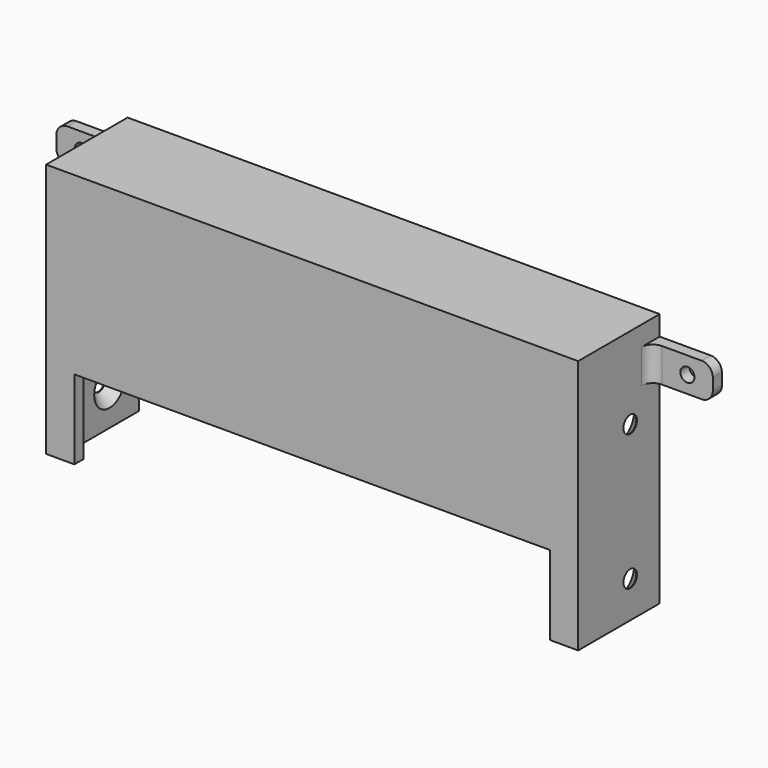
from build123d import *

# Parameters (mm, degrees)
F0_W      = 94
F0_H      = 45
F1_DEPTH  = 2
F2_W      = 2
F2_H      = 45
F3_DEPTH  = 16
F4_W      = 94
F4_H      = 18
F5_DEPTH  = 2
F6_W      = 2
F6_H      = 6
F7_DEPTH  = 11
F8_R      = 1.25
F8_R_2    = 1.5
F9_DEPTH  = 25
F10_R     = 2
F12_W     = 19.2678107619
F12_H     = 14.8564111814
F12_W_2   = 16.8835728168
F12_H_2   = 15.2771589719
F13_DEPTH = 25
F14_R     = 1.5
F15_DEPTH = 100
F16_R     = 1.5
F17_DEPTH = 100
F18_SIZE  = 1.87
F19_W     = 84
F19_H     = 28
F20_DEPTH = 25


with BuildPart() as f1:
    # F0 (on Front) → F1 (new body)
    with BuildSketch(Plane.XZ):
        Rectangle(F0_W, F0_H)
    extrude(amount=F1_DEPTH)

    # F2 (on face) → F3 (join)
    with BuildSketch(Plane(origin=(0, 0, 0), x_dir=(-1, 0, 0), z_dir=(0, 1, 0))):
        with Locations((-46, 0)):
            Rectangle(F2_W, F2_H)
        with Locations((46, 0)):
            Rectangle(F2_W, F2_H)
    extrude(amount=F3_DEPTH)

    # F4 (on face) → F5 (join)
    with BuildSketch(Plane.XY.offset(22.5)):
        with Locations((0, 7)):
            Rectangle(F4_W, F4_H)
    extrude(amount=-F5_DEPTH)

    # F6 (on face) → F7 (join)
    with BuildSketch(Plane.YZ.offset(47)):
        with Locations((15, 16)):
            Rectangle(F6_W, F6_H)
        with Locations((15, -16)):
            Rectangle(F6_W, F6_H)
    extrude(amount=F7_DEPTH)

    # F8 (on face) → F9 (cut)
    with BuildSketch(Plane.XZ.offset(-14)):
        with Locations((53.5, 16)):
            Circle(F8_R)
        with Locations((53.5, -16)):
            Circle(F8_R_2)
    extrude(amount=-F9_DEPTH, mode=Mode.SUBTRACT)

    # F10
    f10_edges = [f1.edges().sort_by_distance(p)[0] for p in [
        (58, 15, -19),
        (58, 15, -13),
        (58, 15, 19),
        (58, 15, 13),
        (47, 14, -16),
        (47, 14, 16),
    ]]
    fillet(f10_edges, radius=F10_R)

    # F11: F1 across plane


with BuildPart() as f1_1:
    add(f1.part)
    add(f1.part.mirror(Plane.YZ))

    # F12 (on face) → F13 (cut)
    with BuildSketch(Plane.XZ.offset(2)):
        with Locations((56.633905381, -15.0717944093)):
            Rectangle(F12_W, F12_H)
        with Locations((-55.4417864084, -14.8614205141)):
            Rectangle(F12_W_2, F12_H_2)
    extrude(amount=-F13_DEPTH, mode=Mode.SUBTRACT)

    # F14 (on face) → F15 (cut)
    with BuildSketch(Plane(origin=(-47, 0, 0), x_dir=(0, -1, 0), z_dir=(-1, 0, 0))):
        with Locations((-9.5, -16)):
            Circle(F14_R)
    extrude(amount=-F15_DEPTH, mode=Mode.SUBTRACT)

    # F16 (on face) → F17 (cut)
    with BuildSketch(Plane(origin=(-47, 0, 0), x_dir=(0, -1, 0), z_dir=(-1, 0, 0))):
        with Locations((-9.5, 8)):
            Circle(F16_R)
    extrude(amount=-F17_DEPTH, mode=Mode.SUBTRACT)

    # F18
    f18_edges = [f1_1.edges().sort_by_distance(p)[0] for p in [
        (45, 11, 8),
        (45, 11, -16),
        (-45, 11, 8),
        (-45, 11, -16),
    ]]
    chamfer(f18_edges, length=F18_SIZE)

    # F19 (on face) → F20 (cut)
    with BuildSketch(Plane.XZ.offset(2)):
        with Locations((0, -22.5)):
            Rectangle(F19_W, F19_H)
    extrude(amount=-F20_DEPTH, mode=Mode.SUBTRACT)


solid = f1_1.part
